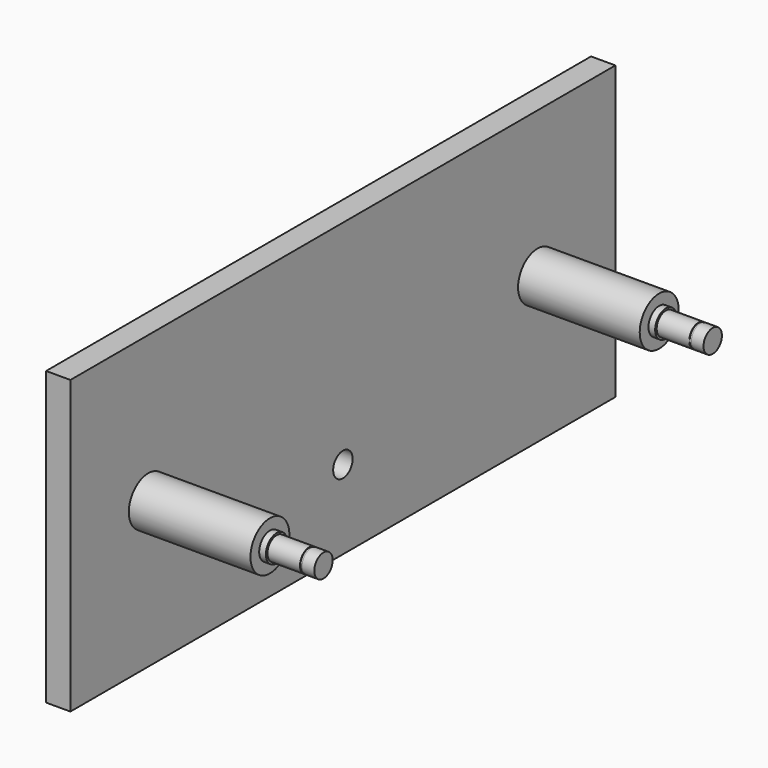
from build123d import *

# Parameters (mm, degrees)
F0_W      = 355.6
F0_H      = 152.4
F1_DEPTH  = 12.7
F3_DEPTH  = 63.5
F4_R      = 6.9999987
F5_DEPTH  = 3.50012
F6_R      = 6.9999987
F7_DEPTH  = 3.50012
F8_R      = 6.0000007
F9_DEPTH  = 16.9999914
F10_R     = 6.0000007
F11_DEPTH = 16.9999914
F12_R     = 5.74999993
F13_DEPTH = 1.10000034
F14_R     = 5.74999993
F15_DEPTH = 1.10000034
F16_R     = 6.0000007
F17_DEPTH = 6.35
F18_R     = 6.0000007
F19_DEPTH = 6.35
F20_R     = 6.35
F21_DEPTH = 25.4


with BuildPart() as f1:
    # F0 (on Right) → F1 (new body)
    with BuildSketch(Plane.YZ):
        with Locations((177.8, 76.2)):
            Rectangle(F0_W, F0_H)
    extrude(amount=F1_DEPTH)

    # F2 (on face) → F3 (join)
    with BuildSketch(Plane.YZ.offset(12.7)):
        with BuildLine():
            ThreePointArc((63.5, 76.2), (50.8, 88.9), (38.1, 76.2))
            Line((38.1, 76.2), (63.5, 76.2))
        make_face()
        with BuildLine():
            ThreePointArc((317.5, 76.2), (304.8, 88.9), (292.1, 76.2))
            Line((292.1, 76.2), (317.5, 76.2))
        make_face()
        with BuildLine():
            Line((317.5, 76.2), (292.1, 76.2))
            ThreePointArc((292.1, 76.2), (304.8, 63.5), (317.5, 76.2))
        make_face()
        with BuildLine():
            Line((63.5, 76.2), (38.1, 76.2))
            ThreePointArc((38.1, 76.2), (50.8, 63.5), (63.5, 76.2))
        make_face()
    extrude(amount=F3_DEPTH)

    # F4 (on face) → F5 (join)
    with BuildSketch(Plane.YZ.offset(76.2)):
        with Locations((50.8, 76.2)):
            Circle(F4_R)
    extrude(amount=F5_DEPTH)

    # F6 (on face) → F7 (join)
    with BuildSketch(Plane.YZ.offset(76.2)):
        with Locations((304.8, 76.2)):
            Circle(F6_R)
    extrude(amount=F7_DEPTH)

    # F8 (on face) → F9 (join)
    with BuildSketch(Plane.YZ.offset(79.70012)):
        with Locations((50.8, 76.2)):
            Circle(F8_R)
    extrude(amount=F9_DEPTH)

    # F10 (on face) → F11 (join)
    with BuildSketch(Plane.YZ.offset(79.70012)):
        with Locations((304.8, 76.2)):
            Circle(F10_R)
    extrude(amount=F11_DEPTH)

    # F12 (on face) → F13 (join)
    with BuildSketch(Plane.YZ.offset(96.7001114)):
        with Locations((50.8, 76.2)):
            Circle(F12_R)
    extrude(amount=F13_DEPTH)

    # F14 (on face) → F15 (join)
    with BuildSketch(Plane.YZ.offset(96.7001114)):
        with Locations((304.8, 76.2)):
            Circle(F14_R)
    extrude(amount=F15_DEPTH)

    # F16 (on face) → F17 (join)
    with BuildSketch(Plane.YZ.offset(97.80011174)):
        with Locations((50.8, 76.2)):
            Circle(F16_R)
    extrude(amount=F17_DEPTH)

    # F18 (on face) → F19 (join)
    with BuildSketch(Plane.YZ.offset(97.80011174)):
        with Locations((304.8, 76.2)):
            Circle(F18_R)
    extrude(amount=F19_DEPTH)

    # F20 (on face) → F21 (cut)
    with BuildSketch(Plane.YZ.offset(12.7)):
        with Locations((177.8, 41.275)):
            Circle(F20_R)
    extrude(amount=-F21_DEPTH, mode=Mode.SUBTRACT)


solid = f1.part
